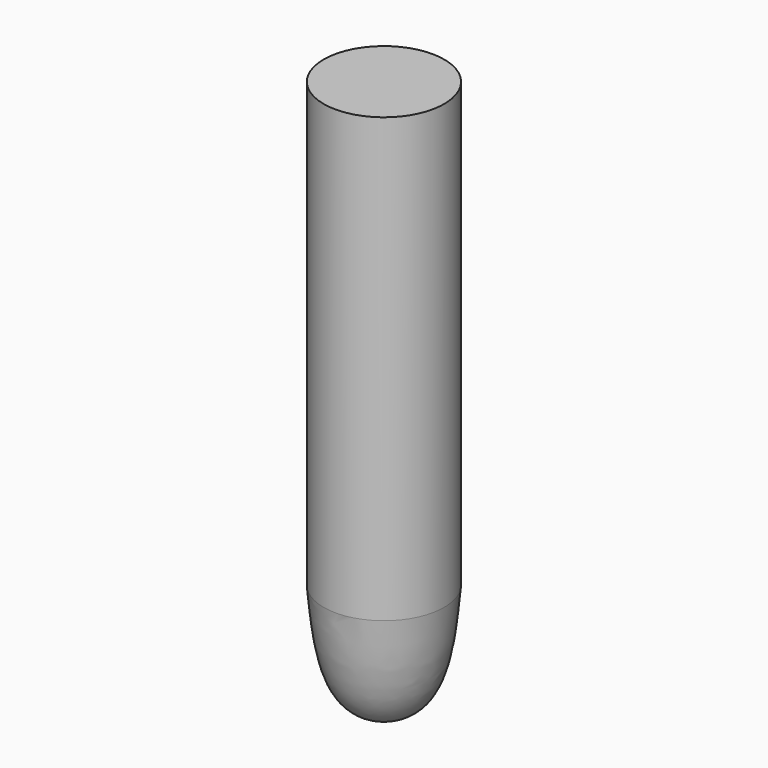
from build123d import *


with BuildPart() as f1:
    # F0 (on Front) → F1 (revolve)
    with BuildSketch(Plane.XZ):
        Polygon((0, 90.9709185362), (0, 0), (15.3814926744, 0), (15.3814926744, 90.9709185362), (15.3814926744, 113.1021082401), (0, 113.1021082401), align=None)
        with BuildLine():
            Line((15.3814926744, 0), (0, 0))
            add(Edge.make_bspline(
                [(0, 0), (0.9974337154, -10.9104800073), (2.367312483, -25.8949496383), (12.5995445321, -29.0980728541), (15.3814926744, -29.0980729019)],
                knots=[0, 0, 0, 0, 0.3640595631, 0.4999999985, 0.4999999985, 0.4999999985, 0.4999999985], degree=3))
            Line((15.3814926744, -29.0980729019), (15.3814926744, 0))
        make_face()
    revolve(axis=Axis((15.3814926744, 0, 30.9364228171), (0, 0, -1)))


solid = f1.part
